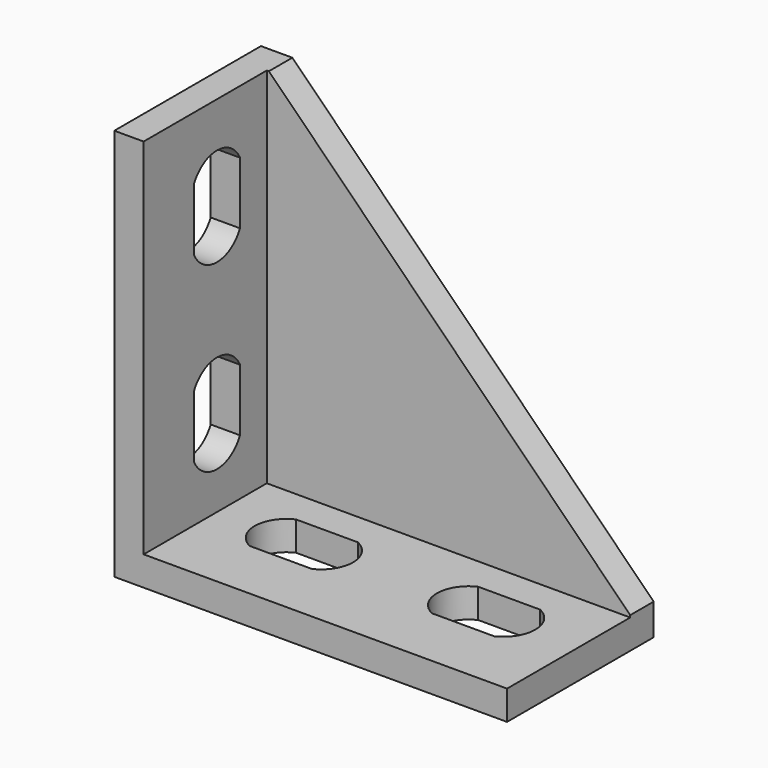
from build123d import *

# Parameters (mm, degrees)
F1_DEPTH = 17.5
F2_DEPTH = 2.8
F4_DEPTH = 2.8
F6_DEPTH = 2.8


with BuildPart() as f1:
    # F0 (on Front) → F1 (new body)
    with BuildSketch(Plane.XZ):
        Polygon((0, 37.5), (0, 0), (37.5, 0), (37.5, 2.8), (2.8, 2.8), (2.8, 37.5), align=None)
    extrude(amount=F1_DEPTH)

    # F0 (on Front) → F2 (join)
    with BuildSketch(Plane.XZ):
        Polygon((2.8, 2.8), (37.5, 2.8), (37.5, 3), (3, 37.5), (2.8, 37.5), align=None)
    extrude(amount=F2_DEPTH)

    # F3 (on face) → F4 (cut, through all)
    with BuildSketch(Plane(origin=(0, 0, 0), x_dir=(0, -1, 0), z_dir=(-1, 0, 0))):
        with BuildLine():
            ThreePointArc((11.5, 31.4665), (8.75, 33.20004), (6, 31.4665))
            Line((6, 31.4665), (6, 25.5335))
            ThreePointArc((6, 25.5335), (8.75, 23.79996), (11.5, 25.5335))
            Line((11.5, 25.5335), (11.5, 31.4665))
        make_face()
        with BuildLine():
            ThreePointArc((11.5, 14.0665), (8.75, 15.80004), (6, 14.0665))
            Line((6, 14.0665), (6, 8.1335))
            ThreePointArc((6, 8.1335), (8.75, 6.39996), (11.5, 8.1335))
            Line((11.5, 8.1335), (11.5, 14.0665))
        make_face()
    extrude(amount=-F4_DEPTH, mode=Mode.SUBTRACT)

    # F5 (on face) → F6 (cut, through all)
    with BuildSketch(Plane(origin=(0, 0, 0), x_dir=(1, 0, 0), z_dir=(0, 0, -1))):
        with BuildLine():
            ThreePointArc((25.5335, 11.5), (23.79996, 8.75), (25.5335, 6))
            Line((25.5335, 6), (31.4665, 6))
            ThreePointArc((31.4665, 6), (33.20004, 8.75), (31.4665, 11.5))
            Line((31.4665, 11.5), (25.5335, 11.5))
        make_face()
        with BuildLine():
            ThreePointArc((8.1335, 11.5), (6.39996, 8.75), (8.1335, 6))
            Line((8.1335, 6), (14.0665, 6))
            ThreePointArc((14.0665, 6), (15.80004, 8.75), (14.0665, 11.5))
            Line((14.0665, 11.5), (8.1335, 11.5))
        make_face()
    extrude(amount=-F6_DEPTH, mode=Mode.SUBTRACT)


solid = f1.part
